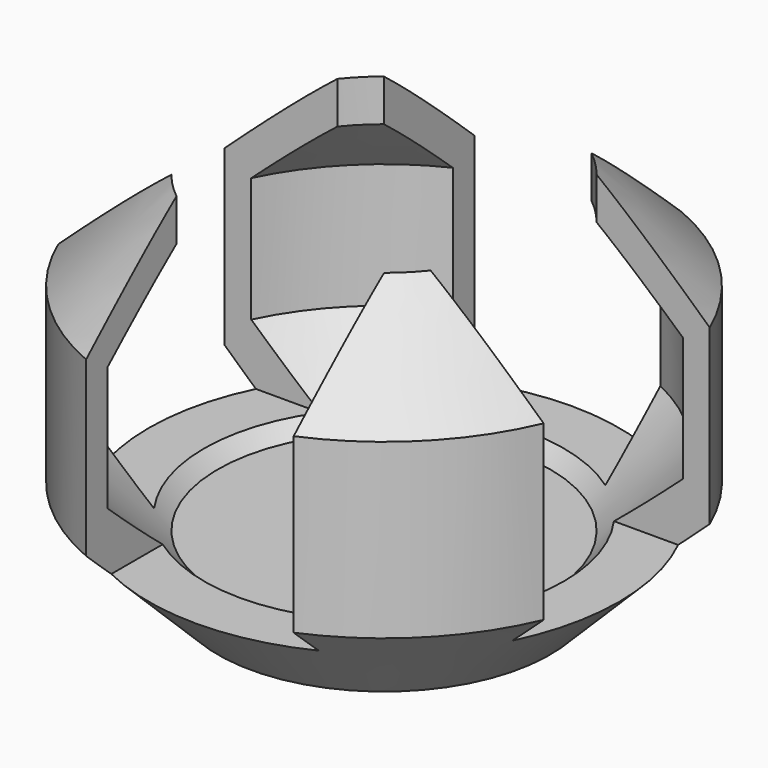
from build123d import *

# Parameters (mm, degrees)
F0_R     = 24
F0_R_2   = 23
F1_DEPTH = 8
F2_DEPTH = 2
F3_W     = 24
F3_H     = 8
F5_W     = 15
F5_H     = 75
F6_DEPTH = 75
F7_W     = 15
F7_H     = 75
F8_DEPTH = 75


with BuildPart() as f1:
    # F0 (on Top) → F1 (new body)
    with BuildSketch(Plane.XY):
        Circle(F0_R)
        Circle(F0_R_2, mode=Mode.SUBTRACT)
    extrude(amount=F1_DEPTH)

    # F0 (on Top) → F2 (join)
    with BuildSketch(Plane.XY):
        Circle(F0_R_2)
    extrude(amount=F2_DEPTH)

    # F3 (on Right) → F4 (revolve)
    with BuildSketch(Plane.YZ):
        with Locations((12, 4)):
            Rectangle(F3_W, F3_H)
        Polygon((24, 8), (24, 0), (38.142136, 14.142136), (38.142136, 39.142136), (24, 53.284271), (24, 47.213203), (34.606602, 36.606602), (34.606602, 18.606602), align=None)
    revolve(axis=Axis((0, 0, 27.5), (0, 0, 1)))

    # F5 (on Right) → F6 (cut, symmetric)
    with BuildSketch(Plane.YZ):
        with Locations((-7.5, 47.5)):
            Rectangle(F5_W, F5_H)
        with Locations((7.5, 47.5)):
            Rectangle(F5_W, F5_H)
    extrude(amount=F6_DEPTH, both=True, mode=Mode.SUBTRACT)

    # F7 (on Front) → F8 (cut, symmetric)
    with BuildSketch(Plane.XZ):
        with Locations((7.5, 47.5)):
            Rectangle(F7_W, F7_H)
        with Locations((-7.5, 47.5)):
            Rectangle(F7_W, F7_H)
    extrude(amount=F8_DEPTH, both=True, mode=Mode.SUBTRACT)


solid = f1.part
